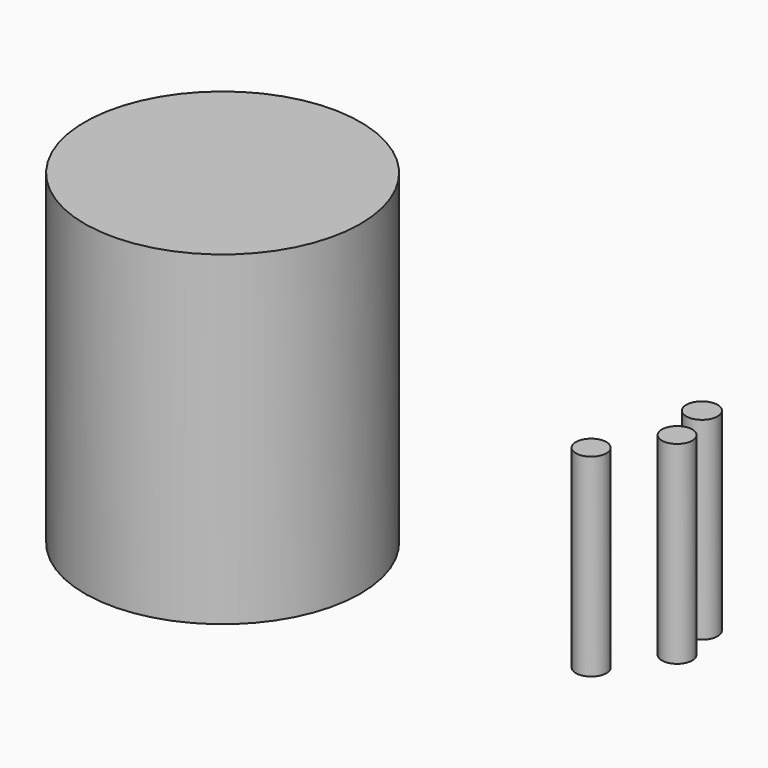
from build123d import *

# Parameters (mm, degrees)
F0_R      = 16.461068
F1_DEPTH  = 39.37
F1_FACE_R = 16.461068
F2_DEPTH  = 0.508
F3_R      = 1.82324
F3_R_2    = 1.810876
F3_R_3    = 1.868311
F4_DEPTH  = 23.114


with BuildPart() as f1:
    # F0 (on Top) → F1 (new body)
    with BuildSketch(Plane.XY):
        with Locations((-25.433643, 29.354664)):
            Circle(F0_R)
    extrude(amount=F1_DEPTH)

    # F1_face (on face) → F2 (cut)
    with BuildSketch(Plane(origin=(-25.433643, 29.354664, 0), x_dir=(1, 0, 0), z_dir=(0, 0, -1))):
        Circle(F1_FACE_R)
    extrude(amount=-F2_DEPTH, mode=Mode.SUBTRACT)


with BuildPart() as f4:
    # F3 (on Top) → F4 (new body)
    with BuildSketch(Plane.XY):
        with Locations((16.531866, 31.898025)):
            Circle(F3_R)
        with Locations((21.194704, 38.89228)):
            Circle(F3_R_2)
        with Locations((19.923018, 44.190951)):
            Circle(F3_R_3)
    extrude(amount=F4_DEPTH)


solid = Compound([f1.part, f4.part])
